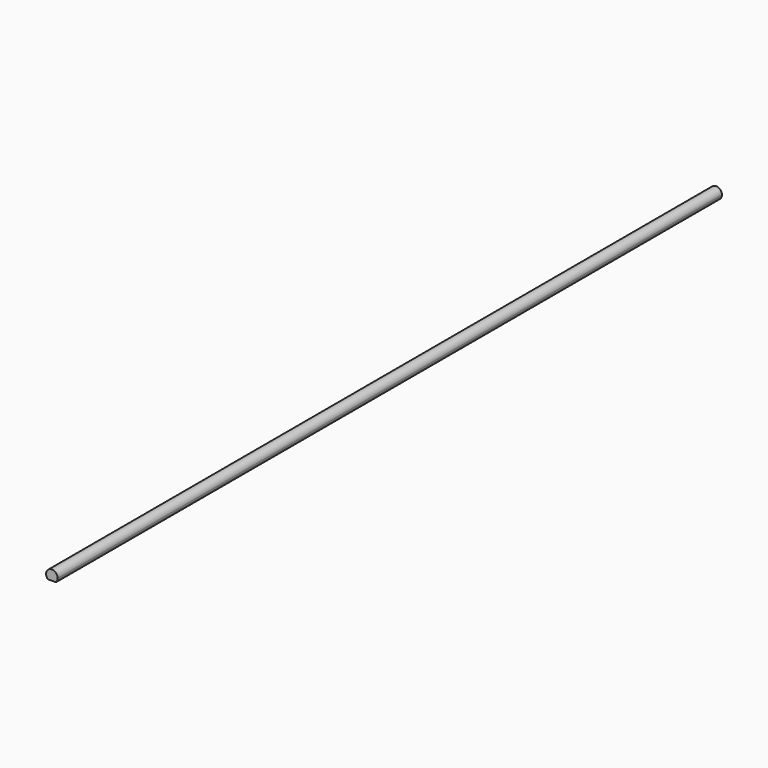
from build123d import *

# Parameters (mm, degrees)
F1_DEPTH = 200


with BuildPart() as f1:
    # F0 (on Front) → F1 (new body)
    with BuildSketch(Plane.XZ):
        with BuildLine():
            ThreePointArc((0.989949, -0.989949), (1.293431, -0.535757), (1.4, 0))
            ThreePointArc((1.4, 0), (-0.535757, 1.293431), (-0.989949, -0.989949))
            Line((-0.989949, -0.989949), (0.989949, -0.989949))
        make_face()
    extrude(amount=F1_DEPTH)


solid = f1.part
